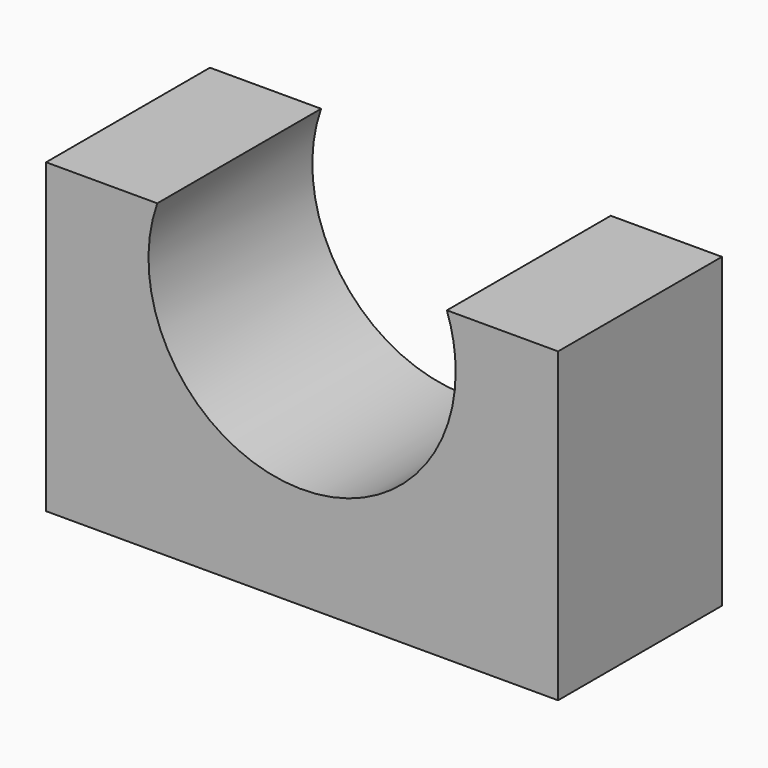
from build123d import *

# Parameters (mm, degrees)
F0_W     = 63.5
F0_H     = 38.1
F1_DEPTH = 25.4
F3_DEPTH = 25.4


with BuildPart() as f1:
    # F0 (on Front) → F1 (new body)
    with BuildSketch(Plane.XZ):
        with Locations((31.75, 19.05)):
            Rectangle(F0_W, F0_H)
    extrude(amount=F1_DEPTH)

    # F2 (on face) → F3 (cut)
    with BuildSketch(Plane.XZ.offset(25.4)):
        with BuildLine():
            ThreePointArc((13.789488, 38.1), (28.528607, 12.974347), (50.8, 31.75))
            ThreePointArc((50.8, 31.75), (50.525653, 34.971393), (49.710512, 38.1))
            Line((49.710512, 38.1), (13.789488, 38.1))
        make_face()
    extrude(amount=-F3_DEPTH, mode=Mode.SUBTRACT)


solid = f1.part
